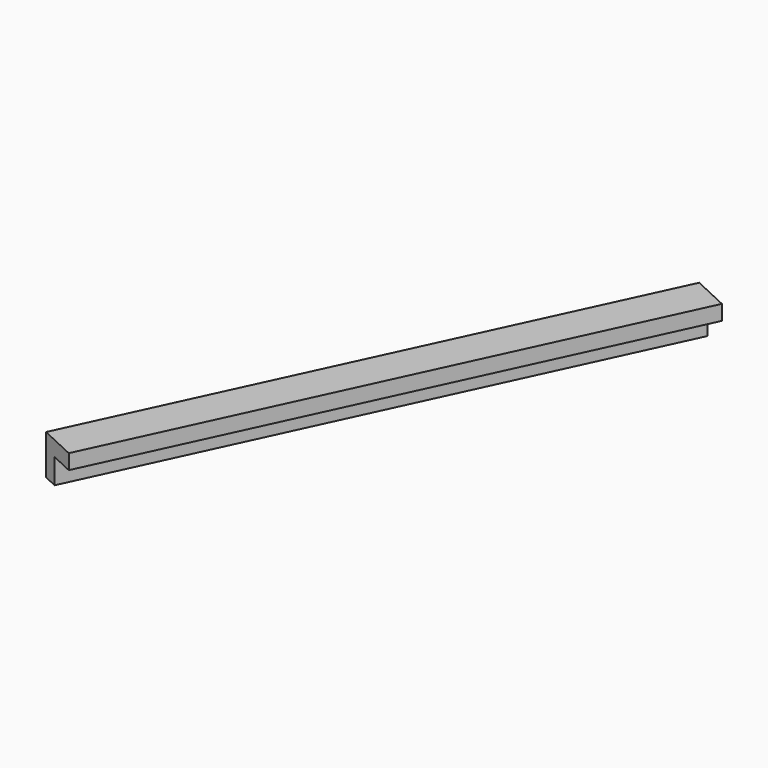
from build123d import *

# Parameters (mm, degrees)
BOX187_W               = 0.8
BOX187_H               = 11.4
BOX187_DEPTH           = 0.8
BOX188_W               = 0.8
BOX188_H               = 11.4
BOX188_DEPTH           = 0.8
CUT097_PLACEMENT_ANGLE = 155


with BuildPart() as cubo187:
    # Box187 → Box187 (new body)
    with BuildSketch(Plane.XY):
        with Locations((0.4, 5.7)):
            Rectangle(BOX187_W, BOX187_H)
    extrude(amount=BOX187_DEPTH)


with BuildPart() as obj1:
    # Box188 → Box188 (new body)
    with BuildSketch(Plane(origin=(0.3, 0, 0.3), x_dir=(1, 0, 0), z_dir=(0, 0, 1))):
        with Locations((0.4, 5.7)):
            Rectangle(BOX188_W, BOX188_H)
    extrude(amount=BOX188_DEPTH)

    # Cut097: cut Cubo187
    add(cubo187.part, mode=Mode.SUBTRACT)


with BuildPart() as obj1_1:
    # Cut097 placement: moved
    add(obj1.part.moved(Location((-107.2, 206.9, -1.45))).rotate(Axis((-107.2, 206.9, -1.45), (0, 0, 1)), CUT097_PLACEMENT_ANGLE))


solid = obj1_1.part
